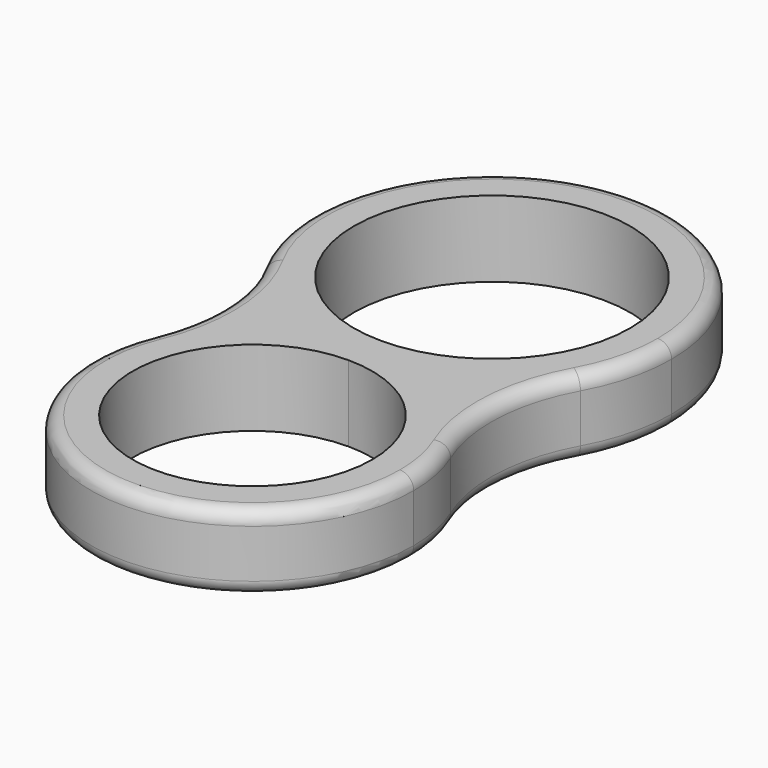
from build123d import *

# Parameters (mm, degrees)
F1_DEPTH = 6.985
F2_R     = 1.27


with BuildPart() as f1:
    # F0 (on Top) → F1 (new body)
    with BuildSketch(Plane.XY):
        with BuildLine():
            ThreePointArc((-13.7046532603, 5.6428322521), (-11.1770065001, 9.7331188478), (-7.4729632817, 12.7989802953))
            ThreePointArc((-7.4729632817, 12.7989802953), (-11.487981867, 15.6631441995), (-14.4778651692, 19.5854403319))
            ThreePointArc((-14.4778651692, 19.5854403319), (-12.5103993427, 12.7018056629), (-13.7046532603, 5.6428322521))
        make_face()
        with BuildLine():
            ThreePointArc((14.4771044871, 19.5840526618), (11.4874135696, 15.6625936504), (7.4729632817, 12.7989802953))
            ThreePointArc((7.4729632817, 12.7989802953), (11.1765146122, 9.7336836774), (13.7040828571, 5.644217382))
            ThreePointArc((13.7040828571, 5.644217382), (12.5096874073, 12.7018028253), (14.4771044871, 19.5840526618))
        make_face()
        with BuildLine():
            ThreePointArc((7.4729632817, 12.7989802953), (3.8419529979, 11.4641413868), (0, 11.0109))
            ThreePointArc((0, 11.0109), (-3.8419529979, 11.4641413868), (-7.4729632817, 12.7989802953))
            ThreePointArc((-7.4729632817, 12.7989802953), (-11.1770065001, 9.7331188478), (-13.7046532603, 5.6428322521))
            ThreePointArc((-13.7046532603, 5.6428322521), (-2.8760894722, -14.5391604351), (14.8209, 0))
            ThreePointArc((14.8209, 0), (14.5390150703, 2.8768242207), (13.7040828571, 5.644217382))
            ThreePointArc((13.7040828571, 5.644217382), (11.1765146122, 9.7336836774), (7.4729632817, 12.7989802953))
        make_face()
        with BuildLine():
            ThreePointArc((0, 11.0109), (7.785882057, 7.785882057), (11.0109, 0))
            ThreePointArc((11.0109, 0), (-7.785882057, -7.785882057), (0, 11.0109))
        make_face(mode=Mode.SUBTRACT)
        with BuildLine():
            ThreePointArc((-7.4729632817, 12.7989802953), (-3.8708312936, 14.3064929982), (-7.5e-09, 14.8209))
            ThreePointArc((-7.5e-09, 14.8209), (3.8708312864, 14.3064930001), (7.4729632817, 12.7989802953))
            ThreePointArc((7.4729632817, 12.7989802953), (11.4874135696, 15.6625936504), (14.4771044871, 19.5840526618))
            ThreePointArc((14.4771044871, 19.5840526618), (15.9937033717, 23.4243706813), (16.51, 27.5209))
            ThreePointArc((16.51, 27.5209), (-4.095762814, 43.5147996799), (-14.4778651692, 19.5854403319))
            ThreePointArc((-14.4778651692, 19.5854403319), (-11.487981867, 15.6631441995), (-7.4729632817, 12.7989802953))
        make_face()
        with BuildLine():
            ThreePointArc((12.7, 27.5209), (8.9802561184, 18.5406438763), (-7.5e-09, 14.8209))
            ThreePointArc((-7.5e-09, 14.8209), (-8.9802561184, 36.5011561237), (12.7, 27.5209))
        make_face(mode=Mode.SUBTRACT)
        with BuildLine():
            Line((0, 14.8209), (0, 11.0109))
            ThreePointArc((0, 11.0109), (3.8419529979, 11.4641413868), (7.4729632817, 12.7989802953))
            ThreePointArc((7.4729632817, 12.7989802953), (3.8708312864, 14.3064930001), (-7.5e-09, 14.8209))
        make_face()
        with BuildLine():
            ThreePointArc((-7.4729632817, 12.7989802953), (-3.8419529979, 11.4641413868), (0, 11.0109))
            Line((0, 11.0109), (0, 14.8209))
            ThreePointArc((-7.5e-09, 14.8209), (-3.8708312936, 14.3064929982), (-7.4729632817, 12.7989802953))
        make_face()
    extrude(amount=F1_DEPTH)

    # F2
    f2_edges = [f1.edges().sort_by_distance(p)[0] for p in [
        (0.000791, 44.0309, 6.985),
        (0.000791, 44.0309, 0),
    ]]
    fillet(f2_edges, radius=F2_R)


solid = f1.part
